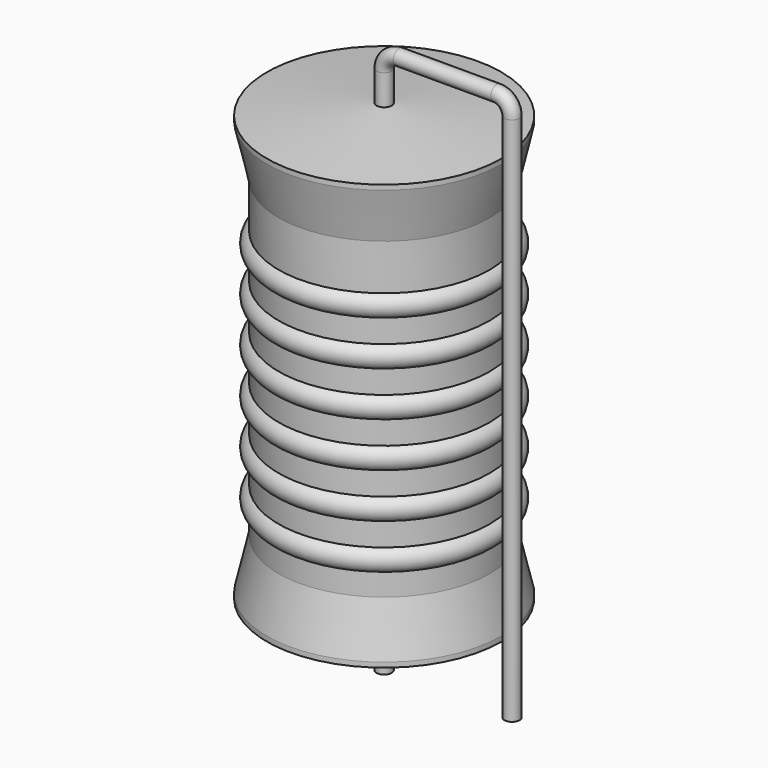
from build123d import *

# Parameters (mm, degrees)
SKETCH_R = 0.45


with BuildPart() as revolution:
    # Sketch002 → Revolution (revolve)
    with BuildSketch(Plane.XZ):
        Polygon((0, 0.1), (0, 26.77), (0.3375, 26.77), (6.985, 26.10325), (6.985, 25.81075), (6.2865, 22.7695), (6.2865, 4.1005), (6.985, 1.05925), (6.985, 0.76675), (0.3375, 0.1), align=None)
    revolve(axis=Axis((0, 0, 0), (0, 0, 1)))


with BuildPart() as sweep_body:
    # Sweep: sweep along a path in Sketch001
    with BuildLine(Plane.XZ) as sweep_path:
        Line((0, -3), (0, 28.57))
        ThreePointArc((0, 28.57), (0.263607, 29.206399), (0.900008, 29.47))
        Line((0.900008, 29.47), (6.72, 29.47))
        ThreePointArc((6.72, 29.47), (7.356396, 29.206396), (7.62, 28.57))
        Line((7.62, 28.57), (7.62, -3))
    # Sketch → Sweep (sweep)
    with BuildSketch(Plane.XY.offset(-2)):
        Circle(SKETCH_R)
    sweep(path=sweep_path.line)


with BuildPart() as obj1:
    # Sketch003 → Revolution001 (revolve)
    with BuildSketch(Plane.XZ):
        with BuildLine():
            Line((5.588, 21.3725), (5.588, 4.1005))
            Line((5.588, 4.1005), (6.0071, 4.1005))
            Line((6.0071, 4.1005), (6.0071, 5.3705))
            ThreePointArc((6.0071, 5.3705), (6.7056, 6.069), (6.0071, 6.7675))
            Line((6.0071, 6.7675), (6.0071, 8.0375))
            ThreePointArc((6.0071, 8.0375), (6.7056, 8.736), (6.0071, 9.4345))
            Line((6.0071, 9.4345), (6.0071, 10.7045))
            ThreePointArc((6.0071, 10.7045), (6.7056, 11.403), (6.0071, 12.1015))
            Line((6.0071, 12.1015), (6.0071, 13.3715))
            ThreePointArc((6.0071, 13.3715), (6.7056, 14.07), (6.0071, 14.7685))
            Line((6.0071, 14.7685), (6.0071, 16.0385))
            ThreePointArc((6.0071, 16.0385), (6.7056, 16.737), (6.0071, 17.4355))
            Line((6.0071, 17.4355), (6.0071, 18.7055))
            ThreePointArc((6.0071, 18.7055), (6.7056, 19.404), (6.0071, 20.1025))
            Line((6.0071, 21.3725), (6.0071, 20.1025))
            Line((5.588, 21.3725), (6.0071, 21.3725))
        make_face()
    revolve(axis=Axis((0, 0, 0), (0, 0, 1)))

    # obj1: union Revolution, Sweep body
    add(revolution.part)
    add(sweep_body.part)


solid = obj1.part
